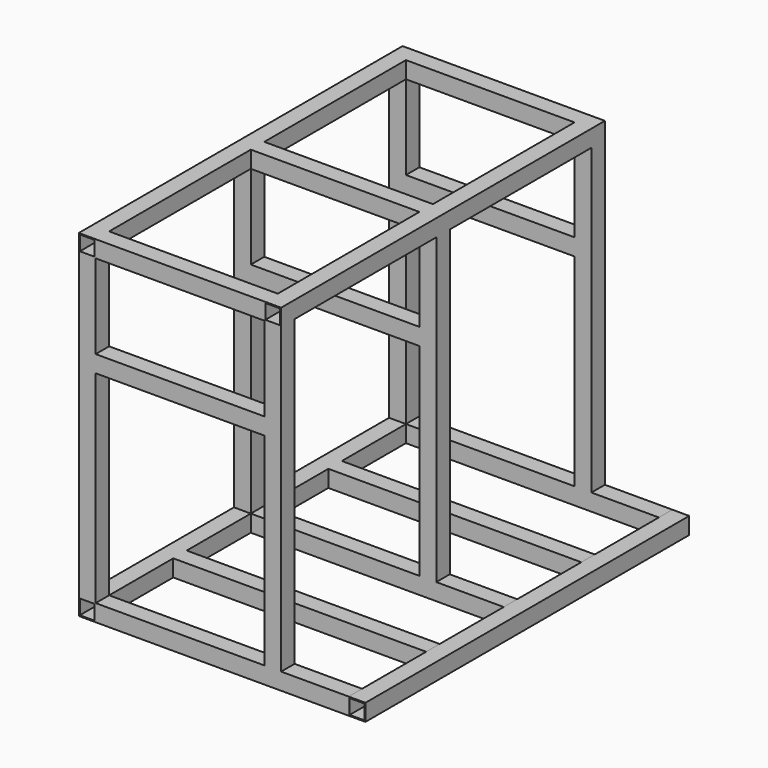
from build123d import *

# Parameters (mm, degrees)
F0_W      = 50.8
F0_H      = 50.8
F0_W_2    = 44.45
F0_H_2    = 44.45
F1_DEPTH  = 1219.2
F2_W      = 50.8
F2_H      = 50.8
F2_W_2    = 44.45
F2_H_2    = 44.45
F3_DEPTH  = 762
F4_W      = 50.8
F4_H      = 50.8
F4_W_2    = 44.45
F4_H_2    = 44.45
F5_DEPTH  = 1219.2
F6_W      = 50.8
F6_H      = 50.8
F6_W_2    = 44.45
F6_H_2    = 44.45
F7_DEPTH  = 914.4
F8_W      = 50.8
F8_H      = 50.8
F8_W_2    = 44.45
F8_H_2    = 44.45
F9_DEPTH  = 1219.2
F10_W     = 50.8
F10_H     = 50.8
F10_W_2   = 44.45
F10_H_2   = 44.45
F11_DEPTH = 508


with BuildPart() as f1:
    # F0 (on Front) → F1 (new body)
    with BuildSketch(Plane.XZ):
        with Locations((25.4, 25.4)):
            Rectangle(F0_W, F0_H)
        with Locations((25.4, 25.4)):
            Rectangle(F0_W_2, F0_H_2, mode=Mode.SUBTRACT)
    extrude(amount=F1_DEPTH)

    # F2 (on face) → F3 (join)
    with BuildSketch(Plane.YZ.offset(50.8)):
        with Locations((-1193.8, 25.4)):
            Rectangle(F2_W, F2_H)
        with Locations((-1193.8, 25.4)):
            Rectangle(F2_W_2, F2_H_2, mode=Mode.SUBTRACT)
        with Locations((-901.7, 25.4)):
            Rectangle(F2_W, F2_H)
        with Locations((-901.7, 25.4)):
            Rectangle(F2_W_2, F2_H_2, mode=Mode.SUBTRACT)
        with Locations((-609.6, 25.4)):
            Rectangle(F2_W, F2_H)
        with Locations((-609.6, 25.4)):
            Rectangle(F2_W_2, F2_H_2, mode=Mode.SUBTRACT)
        with Locations((-317.5, 25.4)):
            Rectangle(F2_W, F2_H)
        with Locations((-317.5, 25.4)):
            Rectangle(F2_W_2, F2_H_2, mode=Mode.SUBTRACT)
        with Locations((-25.4, 25.4)):
            Rectangle(F2_W, F2_H)
        with Locations((-25.4, 25.4)):
            Rectangle(F2_W_2, F2_H_2, mode=Mode.SUBTRACT)
    extrude(amount=F3_DEPTH)

    # F6 (on face) → F7 (join)
    with BuildSketch(Plane.XY.offset(50.8)):
        with Locations((25.4, -1193.8)):
            Rectangle(F6_W, F6_H)
        with Locations((25.4, -1193.8)):
            Rectangle(F6_W_2, F6_H_2, mode=Mode.SUBTRACT)
        with Locations((25.4, -25.4)):
            Rectangle(F6_W, F6_H)
        with Locations((25.4, -25.4)):
            Rectangle(F6_W_2, F6_H_2, mode=Mode.SUBTRACT)
        with Locations((25.4, -609.6)):
            Rectangle(F6_W, F6_H)
        with Locations((25.4, -609.6)):
            Rectangle(F6_W_2, F6_H_2, mode=Mode.SUBTRACT)
        with Locations((584.2, -1193.8)):
            Rectangle(F6_W, F6_H)
        with Locations((584.2, -1193.8)):
            Rectangle(F6_W_2, F6_H_2, mode=Mode.SUBTRACT)
        with Locations((584.2, -25.4)):
            Rectangle(F6_W, F6_H)
        with Locations((584.2, -25.4)):
            Rectangle(F6_W_2, F6_H_2, mode=Mode.SUBTRACT)
        with Locations((584.2, -609.6)):
            Rectangle(F6_W, F6_H)
        with Locations((584.2, -609.6)):
            Rectangle(F6_W_2, F6_H_2, mode=Mode.SUBTRACT)
    extrude(amount=F7_DEPTH)

    # F8 (on face) → F9 (join)
    with BuildSketch(Plane.XZ.offset(1219.2)):
        with Locations((25.4, 990.6)):
            Rectangle(F8_W, F8_H)
        with Locations((25.4, 990.6)):
            Rectangle(F8_W_2, F8_H_2, mode=Mode.SUBTRACT)
        with Locations((584.2, 990.6)):
            Rectangle(F8_W, F8_H)
        with Locations((584.2, 990.6)):
            Rectangle(F8_W_2, F8_H_2, mode=Mode.SUBTRACT)
    extrude(amount=-F9_DEPTH)

    # F10 (on face) → F11 (join)
    with BuildSketch(Plane.YZ.offset(50.8)):
        with Locations((-1193.8, 685.8)):
            Rectangle(F10_W, F10_H)
        with Locations((-1193.8, 685.8)):
            Rectangle(F10_W_2, F10_H_2, mode=Mode.SUBTRACT)
        with Locations((-1193.8, 990.6)):
            Rectangle(F10_W, F10_H)
        with Locations((-1193.8, 990.6)):
            Rectangle(F10_W_2, F10_H_2, mode=Mode.SUBTRACT)
        with Locations((-609.6, 685.8)):
            Rectangle(F10_W, F10_H)
        with Locations((-609.6, 685.8)):
            Rectangle(F10_W_2, F10_H_2, mode=Mode.SUBTRACT)
        with Locations((-609.6, 990.6)):
            Rectangle(F10_W, F10_H)
        with Locations((-609.6, 990.6)):
            Rectangle(F10_W_2, F10_H_2, mode=Mode.SUBTRACT)
        with Locations((-25.4, 685.8)):
            Rectangle(F10_W, F10_H)
        with Locations((-25.4, 685.8)):
            Rectangle(F10_W_2, F10_H_2, mode=Mode.SUBTRACT)
        with Locations((-25.4, 990.6)):
            Rectangle(F10_W, F10_H)
        with Locations((-25.4, 990.6)):
            Rectangle(F10_W_2, F10_H_2, mode=Mode.SUBTRACT)
    extrude(amount=F11_DEPTH)


with BuildPart() as f5:
    # F4 (on face) → F5 (new body)
    with BuildSketch(Plane.XZ.offset(1219.2)):
        with Locations((838.2, 25.4)):
            Rectangle(F4_W, F4_H)
        with Locations((838.2, 25.4)):
            Rectangle(F4_W_2, F4_H_2, mode=Mode.SUBTRACT)
    extrude(amount=-F5_DEPTH)


solid = Compound([f1.part, f5.part])
